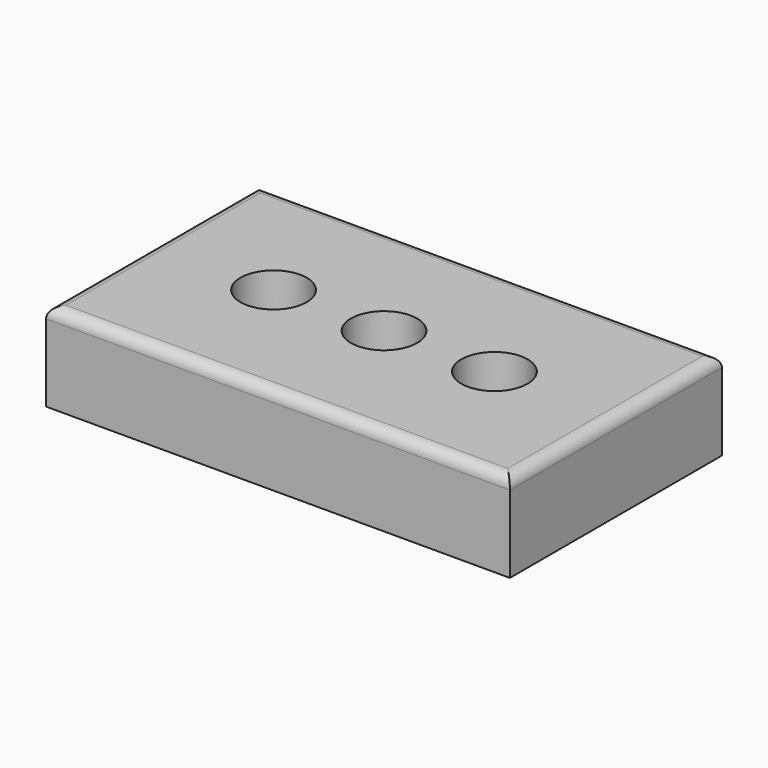
from build123d import *

# Parameters (mm, degrees)
F0_W     = 105
F0_H     = 60
F0_R     = 7.5
F1_DEPTH = 20
F2_R     = 2.5


with BuildPart() as f1:
    # F0 (on Top) → F1 (new body)
    with BuildSketch(Plane.XY):
        Rectangle(F0_W, F0_H)
        with Locations((-25, 0)):
            Circle(F0_R, mode=Mode.SUBTRACT)
        Circle(F0_R, mode=Mode.SUBTRACT)
        with Locations((25, 0)):
            Circle(F0_R, mode=Mode.SUBTRACT)
    extrude(amount=F1_DEPTH)

    # F2
    f2_edges = [f1.edges().sort_by_distance(p)[0] for p in [
        (0, 30, 20),
        (-52.5, 0, 20),
        (0, -30, 20),
        (52.5, 0, 20),
    ]]
    fillet(f2_edges, radius=F2_R)


solid = f1.part
